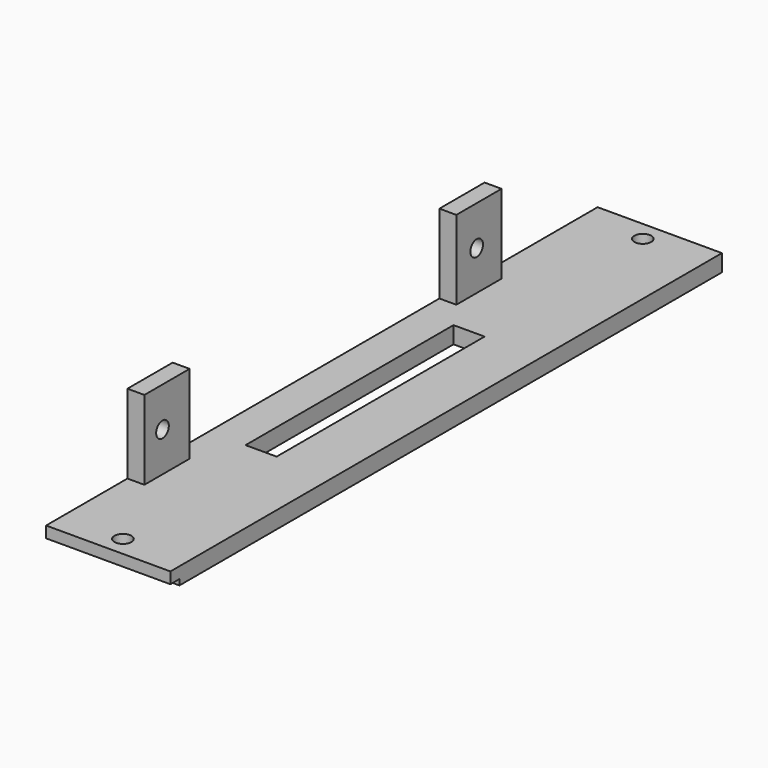
from build123d import *

# Parameters (mm, degrees)
BOX_W             = 22
BOX_H             = 122
BOX_DEPTH         = 3
BOX001_W          = 10
BOX001_H          = 17
BOX001_DEPTH      = 3
BOX002_W          = 10
BOX002_H          = 17
BOX002_DEPTH      = 3
BOX003_W          = 46
BOX003_H          = 5.5
BOX003_DEPTH      = 5
CYLINDER002_R     = 1.5
CYLINDER002_DEPTH = 5
CYLINDER003_R     = 1.5
CYLINDER003_DEPTH = 5
BOX004_W          = 2
BOX004_H          = 30
BOX004_DEPTH      = 2
CYLINDER_R        = 1.4
CYLINDER_DEPTH    = 5
CYLINDER004_R     = 1.4
CYLINDER004_DEPTH = 5


with BuildPart() as part:
    # Box → Box (join)
    with BuildSketch(Plane(origin=(-10, -62.5, 0), x_dir=(1, 0, 0), z_dir=(0, 0, 1))):
        with Locations((11, 61)):
            Rectangle(BOX_W, BOX_H)
    extrude(amount=BOX_DEPTH)

    # Box001 → Box001 (join)
    with BuildSketch(Plane(origin=(-10, -44.5, 0), x_dir=(0, 1, 0), z_dir=(1, 0, 0))):
        with Locations((5, 8.5)):
            Rectangle(BOX001_W, BOX001_H)
    extrude(amount=BOX001_DEPTH)

    # Box002 → Box002 (join)
    with BuildSketch(Plane(origin=(-10, 24.5, 0), x_dir=(0, 1, 0), z_dir=(1, 0, 0))):
        with Locations((5, 8.5)):
            Rectangle(BOX002_W, BOX002_H)
    extrude(amount=BOX002_DEPTH)

    # Box003 → Box003 (cut)
    with BuildSketch(Plane(origin=(-3.5, 19.5, -1), x_dir=(0, -1, 0), z_dir=(0, 0, 1))):
        with Locations((23, 2.75)):
            Rectangle(BOX003_W, BOX003_H)
    extrude(amount=BOX003_DEPTH, mode=Mode.SUBTRACT)

    # Cylinder002 → Cylinder002 (cut)
    with BuildSketch(Plane(origin=(0.8, -59, -1), x_dir=(0, 1, 0), z_dir=(0, 0, 1))):
        Circle(CYLINDER002_R)
    extrude(amount=CYLINDER002_DEPTH, mode=Mode.SUBTRACT)

    # Cylinder003 → Cylinder003 (cut)
    with BuildSketch(Plane(origin=(0.8, 56, -1), x_dir=(0, 1, 0), z_dir=(0, 0, 1))):
        Circle(CYLINDER003_R)
    extrude(amount=CYLINDER003_DEPTH, mode=Mode.SUBTRACT)

    # Box004 → Box004 (cut)
    with BuildSketch(Plane(origin=(16.8, -62.5, -1), x_dir=(0, 1, 0), z_dir=(0, 0, 1))):
        with Locations((1, 15)):
            Rectangle(BOX004_W, BOX004_H)
    extrude(amount=BOX004_DEPTH, mode=Mode.SUBTRACT)

    # Cylinder → Cylinder (cut)
    with BuildSketch(Plane(origin=(-6, -40.5, 10), x_dir=(0, -1, 0), z_dir=(-1, 0, 0))):
        Circle(CYLINDER_R)
    extrude(amount=CYLINDER_DEPTH, mode=Mode.SUBTRACT)

    # Cylinder004 → Cylinder004 (cut)
    with BuildSketch(Plane(origin=(-6, 29, 10), x_dir=(0, -1, 0), z_dir=(-1, 0, 0))):
        Circle(CYLINDER004_R)
    extrude(amount=CYLINDER004_DEPTH, mode=Mode.SUBTRACT)


solid = part.part
